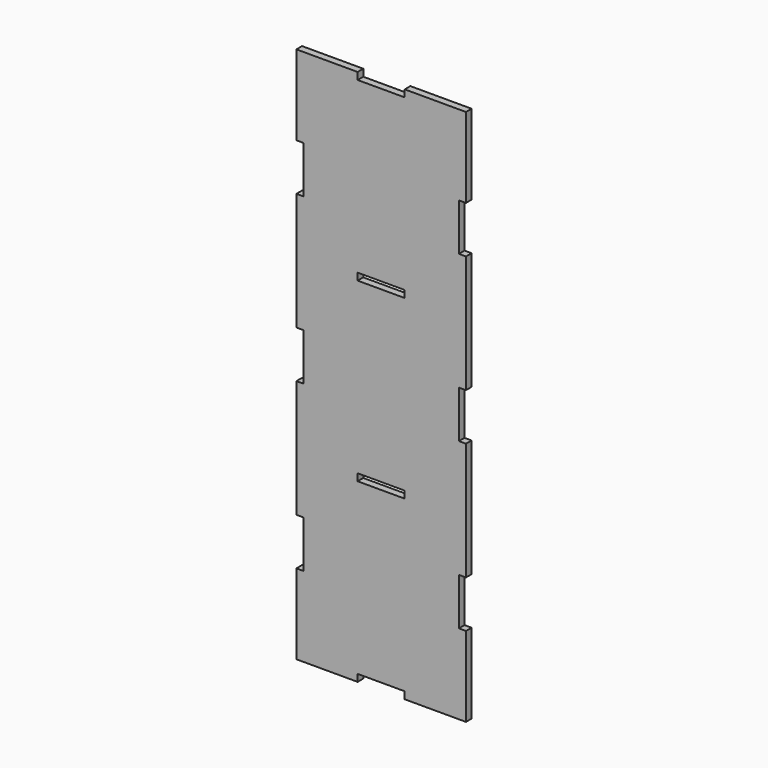
from build123d import *

# Parameters (mm, degrees)
F0_W     = 20
F0_H     = 3
F1_DEPTH = 3


with BuildPart() as f1:
    # F0 (on Front) → F1 (new body)
    with BuildSketch(Plane.XZ):
        Polygon((36, 80), (36, 114), (10, 114), (10, 111), (-10, 111), (-10, 114), (-36, 114), (-36, 80), (-33, 80), (-33, 60), (-36, 60), (-36, 10), (-33, 10), (-33, -10), (-36, -10), (-36, -60), (-33, -60), (-33, -80), (-36, -80), (-36, -114), (-10, -114), (-10, -111), (10, -111), (10, -114), (36, -114), (36, -80), (33, -80), (33, -60), (36, -60), (36, -10), (33, -10), (33, 10), (36, 10), (36, 60), (33, 60), (33, 80), align=None)
        with Locations((0, -37.5)):
            Rectangle(F0_W, F0_H, mode=Mode.SUBTRACT)
        with Locations((0, 37.5)):
            Rectangle(F0_W, F0_H, mode=Mode.SUBTRACT)
    extrude(amount=F1_DEPTH)


solid = f1.part
